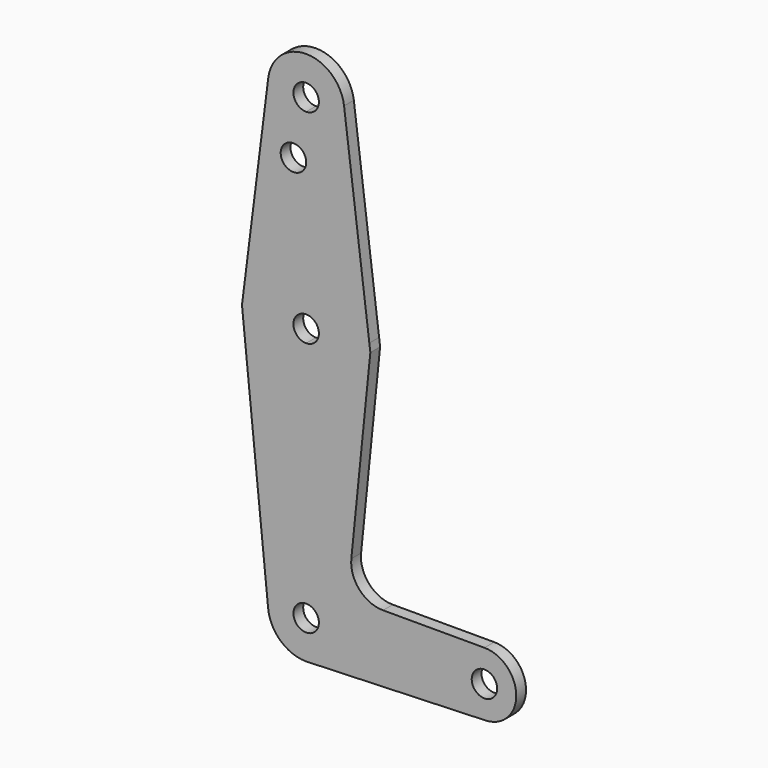
from build123d import *

# Parameters (mm, degrees)
F0_R     = 3.175
F1_DEPTH = 3.048


with BuildPart() as f1:
    # F0 (on Front) → F1 (new body)
    with BuildSketch(Plane.XZ):
        with BuildLine():
            ThreePointArc((9.4502929642, 51.990625), (0, 60.325), (-9.4502929642, 51.990625))
            ThreePointArc((-9.4502929642, 51.990625), (-7.14375, 44.4998046905), (0, 41.275))
            ThreePointArc((0, 41.275), (6.7351920908, 44.0648079092), (9.525, 50.8))
            ThreePointArc((9.525, 50.8), (9.5063048942, 51.396483242), (9.4502929642, 51.990625))
        make_face()
        with BuildLine():
            ThreePointArc((3.175, 50.8), (2.2450640303, 48.5549359697), (0, 47.625))
            ThreePointArc((0, 47.625), (-2.2450640303, 53.0450640303), (3.175, 50.8))
        make_face(mode=Mode.SUBTRACT)
        with BuildLine():
            Line((-9.4502929642, 51.990625), (-15.7504883051, 1.9843747505))
            ThreePointArc((-15.7504883051, 1.9843747505), (-10.5003256101, 11.9062499168), (0, 15.875))
            Line((0, 15.875), (0, 36.5252))
            Line((0, 36.5252), (0, 41.275))
            ThreePointArc((0, 41.275), (-7.14375, 44.4998046905), (-9.4502929642, 51.990625))
        make_face()
        with Locations((-3.175, 36.5252)):
            Circle(F0_R, mode=Mode.SUBTRACT)
        with BuildLine():
            Line((0, 36.5252), (0, 15.875))
            ThreePointArc((0, 15.875), (10.5003255055, 11.9062500091), (15.7504882702, 1.9843750273))
            Line((15.7504882702, 1.9843750273), (9.4502929642, 51.990625))
            ThreePointArc((9.4502929642, 51.990625), (9.5063048942, 51.396483242), (9.525, 50.8))
            ThreePointArc((9.525, 50.8), (6.7351920908, 44.0648079092), (0, 41.275))
            Line((0, 41.275), (0, 36.5252))
        make_face()
        with BuildLine():
            ThreePointArc((-15.7504883051, 1.9843747505), (-11.9062499168, -10.5003256101), (0, -15.875))
            Line((0, -15.875), (0, -3.175))
            ThreePointArc((0, -3.175), (-3.175, 0), (0, 3.175))
            Line((0, 3.175), (0, 15.875))
            ThreePointArc((0, 15.875), (-10.5003256101, 11.9062499168), (-15.7504883051, 1.9843747505))
        make_face()
        with BuildLine():
            Line((0, -3.175), (0, -15.875))
            ThreePointArc((0, -15.875), (11.2253201513, -11.2253201513), (15.875, 0))
            ThreePointArc((15.875, 0), (15.8438414895, 0.9941387503), (15.7504882702, 1.9843750273))
            ThreePointArc((15.7504882702, 1.9843750273), (10.5003255055, 11.9062500091), (0, 15.875))
            Line((0, 15.875), (0, 3.175))
            ThreePointArc((0, 3.175), (2.2450640303, 2.2450640303), (3.175, 0))
            ThreePointArc((3.175, 0), (2.2450640303, -2.2450640303), (0, -3.175))
        make_face()
        with BuildLine():
            ThreePointArc((-9.4765871109, -64.4591255022), (-7.0661621623, -57.1129054105), (0, -53.975))
            Line((0, -53.975), (0, -15.875))
            ThreePointArc((0, -15.875), (-11.9062499168, -10.5003256101), (-15.7504883051, 1.9843747505))
            Line((-15.7504883051, 1.9843747505), (-16.0004960241, 0))
            Line((-16.0004960241, 0), (-9.4765871109, -64.4591255022))
        make_face()
        with BuildLine():
            Line((0, -15.875), (0, -53.975))
            ThreePointArc((0, -53.975), (6.7351920908, -56.7648079092), (9.525, -63.5))
            Line((9.525, -63.5), (36.5125, -63.5))
            ThreePointArc((36.5125, -63.5), (38.8373399243, -57.8873399243), (44.45, -55.5625))
            Line((44.45, -55.5625), (19.1724695942, -55.5625))
            ThreePointArc((19.1724695942, -55.5625), (13.2745795761, -52.9433949507), (11.262678219, -46.8117499142))
            Line((11.262678219, -46.8117499142), (16.0004960241, 0))
            Line((16.0004960241, 0), (15.7504882702, 1.9843750273))
            ThreePointArc((15.7504882702, 1.9843750273), (15.8438414895, 0.9941387503), (15.875, 0))
            ThreePointArc((15.875, 0), (11.2253201513, -11.2253201513), (0, -15.875))
        make_face()
        with BuildLine():
            Line((0, -53.975), (0, -60.325))
            ThreePointArc((0, -60.325), (2.2450640303, -61.2549359697), (3.175, -63.5))
            Line((3.175, -63.5), (9.525, -63.5))
            ThreePointArc((9.525, -63.5), (6.7351920908, -56.7648079092), (0, -53.975))
        make_face()
        with BuildLine():
            ThreePointArc((3.175, -63.5), (-2.2450640303, -65.7450640303), (0, -60.325))
            Line((0, -60.325), (0, -53.975))
            ThreePointArc((0, -53.975), (-7.0661621623, -57.1129054105), (-9.4765871109, -64.4591255022))
            ThreePointArc((-9.4765871109, -64.4591255022), (-6.3870945895, -70.5661621623), (0, -73.025))
            Line((0, -73.025), (0.6773435479, -73.000885786))
            ThreePointArc((0.6773435479, -73.000885786), (6.9705567315, -69.9912990883), (9.525, -63.5))
            Line((9.525, -63.5), (3.175, -63.5))
        make_face()
        with BuildLine():
            Line((36.5125, -63.5), (9.525, -63.5))
            ThreePointArc((9.525, -63.5), (6.9705567315, -69.9912990883), (0.6773435479, -73.000885786))
            Line((0.6773435479, -73.000885786), (44.7324052746, -71.4324746146))
            ThreePointArc((44.7324052746, -71.4324746146), (38.9380895153, -69.2116327839), (36.5125, -63.5))
        make_face()
        with BuildLine():
            ThreePointArc((44.45, -55.5625), (38.8373399243, -57.8873399243), (36.5125, -63.5))
            ThreePointArc((36.5125, -63.5), (38.9380895153, -69.2116327839), (44.7324052746, -71.4324746146))
            ThreePointArc((44.7324052746, -71.4324746146), (50.1616327839, -69.0119104847), (52.3875, -63.5))
            ThreePointArc((52.3875, -63.5), (50.0626600757, -57.8873399243), (44.45, -55.5625))
        make_face()
        with BuildLine():
            ThreePointArc((47.625, -63.5), (44.45, -66.675), (41.275, -63.5))
            ThreePointArc((41.275, -63.5), (44.45, -60.325), (47.625, -63.5))
        make_face(mode=Mode.SUBTRACT)
    extrude(amount=F1_DEPTH)


solid = f1.part
